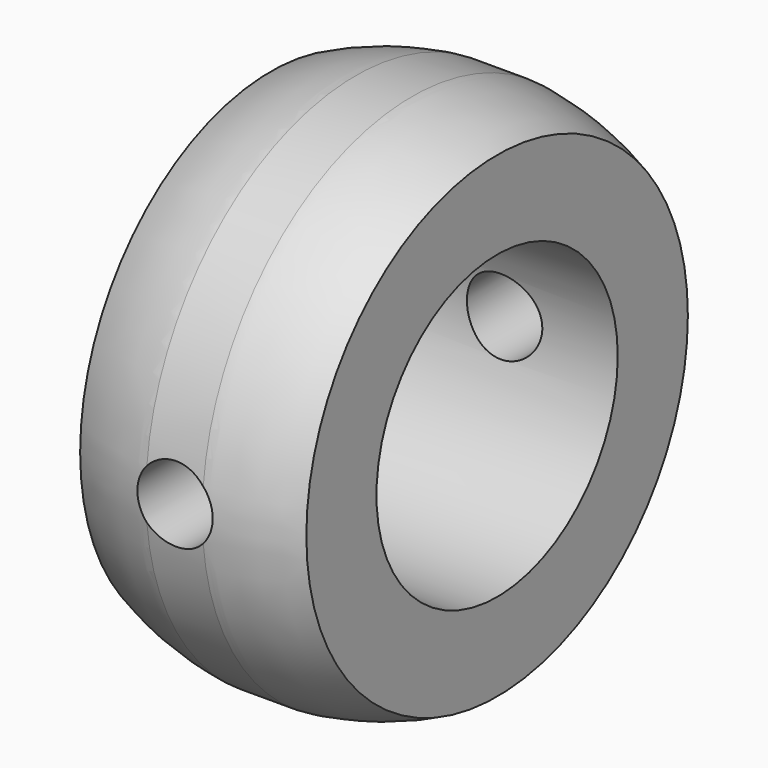
from build123d import *

# Parameters (mm, degrees)
F2_R          = 2.5
F3_DEPTH      = 25
F3_DEPTH_BACK = 25


with BuildPart() as f1:
    # F0 (on Top) → F1 (revolve)
    with BuildSketch(Plane.XY):
        with BuildLine():
            Line((7.5, 10), (7.5, 15.811388))
            ThreePointArc((7.5, 15.811388), (4.750947, 16.842758), (1.868154, 17.4))
            Line((1.868154, 17.4), (-1.868154, 17.4))
            ThreePointArc((-1.868154, 17.4), (-4.750947, 16.842758), (-7.5, 15.811388))
            Line((-7.5, 15.811388), (-7.5, 10))
            Line((-7.5, 10), (7.5, 10))
        make_face()
    revolve(axis=Axis((4.204538, 0, 0), (1, 0, 0)))

    # F2 (on Front) → F3 (cut, two sides)
    with BuildSketch(Plane.XZ) as f3_sk:
        Circle(F2_R)
    extrude(amount=F3_DEPTH, mode=Mode.SUBTRACT)
    extrude(f3_sk.sketch, amount=-F3_DEPTH_BACK, mode=Mode.SUBTRACT)


solid = f1.part
